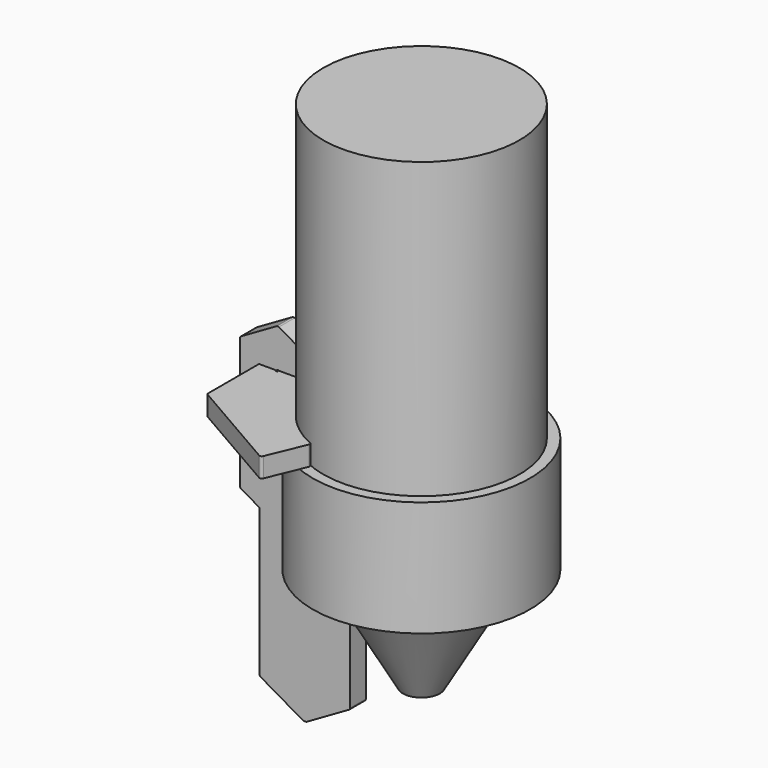
from build123d import *

# Parameters (mm, degrees)
SKETCH003_W       = 14.4
SKETCH003_H       = 15.3
SKETCH004_W       = 13
SKETCH004_H       = 39
PAD002_DEPTH      = 1.3
POCKET_DEPTH      = 1.301
POCKET_DEPTH_BACK = 1.301
FILLET001_R       = 0.3
PAD003_DEPTH      = 2.6
POCKET001_DEPTH   = 2.601
FILLET_R          = 0.3


with BuildPart() as laser_cone:
    # Sketch002 → Revolution (revolve)
    with BuildSketch(Plane.XZ):
        Polygon((0, 21.9), (0, 8.2), (-2.45, 8.2), (-10.3, 21.9), align=None)
    revolve(axis=Axis((0, 0, 0), (0, 0, 1)))


with BuildPart() as laser_collar:
    # Sketch003 → Revolution001 (revolve)
    with BuildSketch(Plane.XZ):
        with Locations((-7.2, 29.55)):
            Rectangle(SKETCH003_W, SKETCH003_H)
    revolve(axis=Axis((0, 0, 0), (0, 0, 1)))


with BuildPart() as laser_mount_tube:
    # Sketch004 → Revolution002 (revolve)
    with BuildSketch(Plane.XZ):
        with Locations((-6.5, 56.7)):
            Rectangle(SKETCH004_W, SKETCH004_H)
    revolve(axis=Axis((0, 0, 0), (0, 0, 1)))


with BuildPart() as jig_main:
    # Sketch005 → Pad002 (new body, symmetric)
    with BuildSketch(Plane.XZ):
        Polygon((-14.4, 37.3), (-14.4, 19.512733), (-8.4, 16.048632), (-8.4, 3.348632), (-14.2, 0), (-14.6, 0), (-20.4, 3.348632), (-20.4, 22.976835), (-23, 24.477945), (-23, 42.1), (-18, 44.986751), (-13, 42.1), (-13, 39.7), (-18, 39.7), (-18, 37.3), align=None)
    extrude(amount=PAD002_DEPTH, both=True)

    # Sketch → Pocket (cut, two sides)
    with BuildSketch(Plane.XZ) as pocket_sk:
        with BuildLine():
            ThreePointArc((-17.870096, 39.775), (-18.106066, 39.806066), (-18.075, 39.570096))
            ThreePointArc((-18, 39.440192), (-18.020096, 39.515192), (-18.075, 39.570096))
            Line((-18, 39.440192), (-17.740192, 39.7))
            ThreePointArc((-17.870096, 39.775), (-17.815192, 39.720096), (-17.740192, 39.7))
        make_face()
        with BuildLine():
            ThreePointArc((-18.075, 37.429904), (-18.106066, 37.193934), (-17.870096, 37.225))
            ThreePointArc((-17.740192, 37.3), (-17.815192, 37.279904), (-17.870096, 37.225))
            Line((-18, 37.559808), (-17.740192, 37.3))
            ThreePointArc((-18.075, 37.429904), (-18.020096, 37.484808), (-18, 37.559808))
        make_face()
    extrude(amount=-POCKET_DEPTH, mode=Mode.SUBTRACT)
    extrude(pocket_sk.sketch, amount=POCKET_DEPTH_BACK, mode=Mode.SUBTRACT)

    # Fillet001
    fillet001_edges = [jig_main.edges().sort_by_distance(p)[0] for p in [
        (-13, 0, 42.1),
        (-18, 0, 44.986751),
        (-23, 0, 42.1),
        (-14.4, 0, 19.512733),
        (-8.4, 0, 16.048632),
        (-8.4, 0, 3.348632),
        (-20.4, 0, 3.348632),
        (-23, 0, 24.477945),
        (-20.4, 0, 22.976835),
    ]]
    fillet(fillet001_edges, radius=FILLET001_R)


with BuildPart() as jig_support:
    # Sketch006 (on Face1 of Binder005) → Pad003 (new body)
    with BuildSketch(Plane.XY.offset(37.2)):
        with BuildLine():
            Line((-18, 1.4), (-18, -1.4))
            Line((-20.4, -1.4), (-18, -1.4))
            Line((-20.4, -1.4), (-20.4, -10))
            Line((-20.4, -10), (-7.279786, -17.574959))
            Line((-7.279786, -17.574959), (-4.974885, -12.010434))
            ThreePointArc((-4.974885, 12.010434), (-13, 0), (-4.974885, -12.010434))
            Line((-4.974885, 12.010434), (-7.279786, 17.574959))
            Line((-7.279786, 17.574959), (-20.4, 10))
            Line((-20.4, 10), (-20.4, 1.4))
            Line((-20.4, 1.4), (-18, 1.4))
        make_face()
    extrude(amount=PAD003_DEPTH)

    # Sketch007 (on Face12 of Pad003) → Pocket001 (cut, through all)
    with BuildSketch(Plane.XY.offset(39.8)):
        with BuildLine():
            ThreePointArc((-17.925, 1.270096), (-17.893934, 1.506066), (-18.129904, 1.475))
            ThreePointArc((-18.259808, 1.4), (-18.184808, 1.420096), (-18.129904, 1.475))
            Line((-18.259808, 1.4), (-18, 1.140192))
            ThreePointArc((-17.925, 1.270096), (-17.979904, 1.215192), (-18, 1.140192))
        make_face()
        with BuildLine():
            ThreePointArc((-18.129904, -1.475), (-17.893934, -1.506066), (-17.925, -1.270096))
            ThreePointArc((-18, -1.140192), (-17.979904, -1.215192), (-17.925, -1.270096))
            Line((-18, -1.140192), (-18.259808, -1.4))
            ThreePointArc((-18.129904, -1.475), (-18.184808, -1.420096), (-18.259808, -1.4))
        make_face()
    extrude(amount=-POCKET001_DEPTH, mode=Mode.SUBTRACT)

    # Fillet
    fillet_edges = [jig_support.edges().sort_by_distance(p)[0] for p in [
        (-4.974885, 12.010434, 38.5),
        (-7.279786, 17.574959, 38.5),
        (-4.974885, -12.010434, 38.5),
        (-7.279786, -17.574959, 38.5),
        (-20.4, -10, 38.5),
        (-20.4, 10, 38.5),
    ]]
    fillet(fillet_edges, radius=FILLET_R)


solid = Compound([laser_cone.part, laser_collar.part, laser_mount_tube.part, jig_main.part, jig_support.part])
